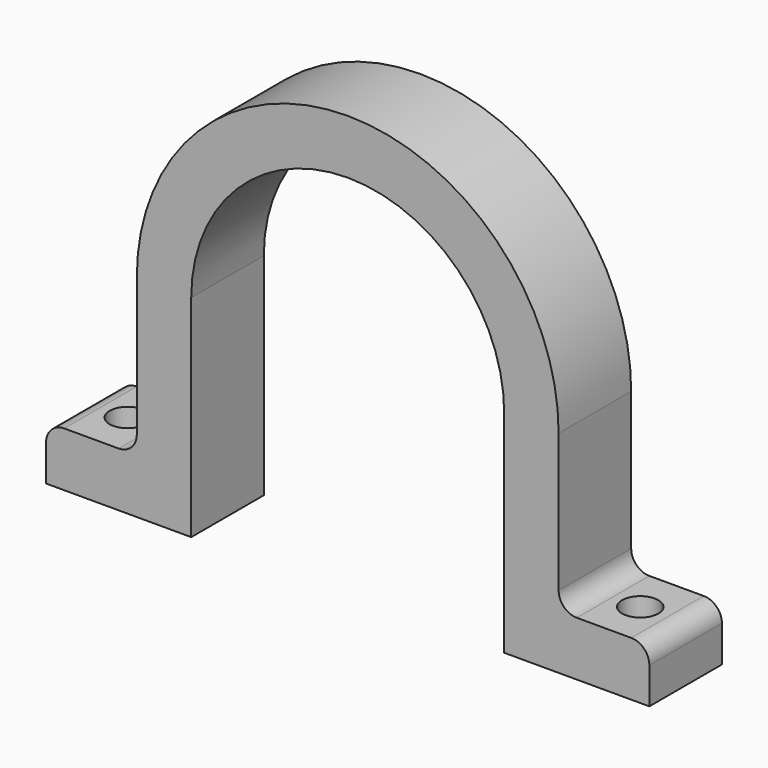
from build123d import *

# Parameters (mm, degrees)
F0_W     = 10
F0_H     = 6
F1_DEPTH = 10
F2_R     = 2
F3_DEPTH = 6
F4_R     = 2


with BuildPart() as f1:
    # F0 (on Front) → F1 (new body)
    with BuildSketch(Plane.XZ):
        with Locations((-28.25, -20.25)):
            Rectangle(F0_W, F0_H)
        with Locations((28.25, -20.25)):
            Rectangle(F0_W, F0_H)
        with BuildLine():
            ThreePointArc((-17.25, 0), (0, 17.25), (17.25, 0))
            Line((17.25, 0), (17.25, -23.25))
            Line((17.25, -23.25), (23.25, -23.25))
            Line((23.25, -23.25), (23.25, -17.25))
            Line((23.25, -17.25), (23.25, 0))
            ThreePointArc((23.25, 0), (0, 23.25), (-23.25, 0))
            Line((-23.25, 0), (-23.25, -17.25))
            Line((-23.25, -17.25), (-23.25, -23.25))
            Line((-23.25, -23.25), (-17.25, -23.25))
            Line((-17.25, -23.25), (-17.25, 0))
        make_face()
    extrude(amount=F1_DEPTH)

    # F2 (on face) → F3 (cut, through all)
    with BuildSketch(Plane.XY.offset(-17.25)):
        with Locations((-28.25, -5)):
            Circle(F2_R)
        with Locations((28.25, -5)):
            Circle(F2_R)
    extrude(amount=-F3_DEPTH, mode=Mode.SUBTRACT)

    # F4
    f4_edges = [f1.edges().sort_by_distance(p)[0] for p in [
        (-23.25, -5, -17.25),
        (23.25, -5, -17.25),
        (33.25, -5, -17.25),
        (-33.25, -5, -17.25),
    ]]
    fillet(f4_edges, radius=F4_R)


solid = f1.part
